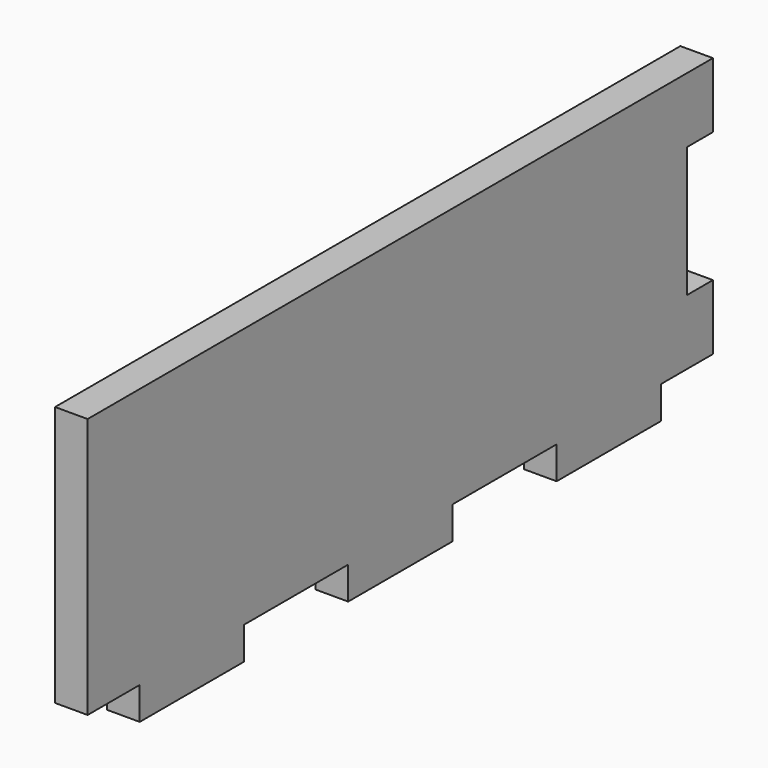
from build123d import *

# Parameters (mm, degrees)
F1_DEPTH = 3.175


with BuildPart() as f1:
    # F0 (on Right) → F1 (new body)
    with BuildSketch(Plane.YZ):
        Polygon((-12.7, 0), (0, 0), (0, 3.175), (6.35, 3.175), (6.35, 9.525), (3.184586, 9.525), (3.184586, 22.225), (6.35, 22.225), (6.35, 28.575), (-69.85, 28.575), (-69.85, 3.175), (-63.5, 3.175), (-63.5, 0), (-50.8, 0), (-50.8, 3.175), (-38.1, 3.175), (-38.1, 0), (-25.4, 0), (-25.4, 3.175), (-12.7, 3.175), align=None)
    extrude(amount=F1_DEPTH)


solid = f1.part
